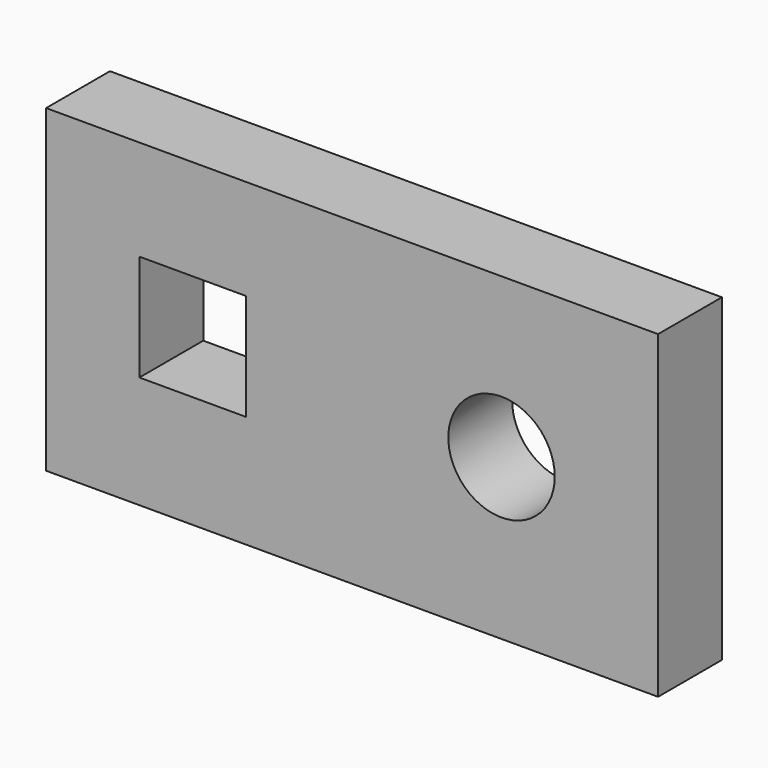
from build123d import *

# Parameters (mm, degrees)
F0_W     = 146.05
F0_H     = 76.2
F1_DEPTH = 19.05
F2_R     = 12.7
F3_DEPTH = 19.05
F4_W     = 25.4
F4_H     = 25.4
F5_DEPTH = 19.05
F6_W     = 25.4
F6_H     = 25.4
F7_DEPTH = 19.05


with BuildPart() as f1:
    # F0 (on Front) → F1 (new body)
    with BuildSketch(Plane.XZ):
        with Locations((0.447217, -0.118598)):
            Rectangle(F0_W, F0_H)
    extrude(amount=F1_DEPTH)

    # F2 (on face) → F3 (cut)
    with BuildSketch(Plane.XZ.offset(19.05)):
        with Locations((36.113463, 0)):
            Circle(F2_R)
    extrude(amount=-F3_DEPTH, mode=Mode.SUBTRACT)

    # F4 (on Front) → F5 (cut)
    with BuildSketch(Plane.XZ):
        with Locations((-38.228483, 0.064241)):
            Rectangle(F4_W, F4_H)
    extrude(amount=-F5_DEPTH, mode=Mode.SUBTRACT)

    # F6 (on Front) → F7 (cut)
    with BuildSketch(Plane.XZ):
        with Locations((-37.605836, 1.309533)):
            Rectangle(F6_W, F6_H)
    extrude(amount=F7_DEPTH, mode=Mode.SUBTRACT)


solid = f1.part
